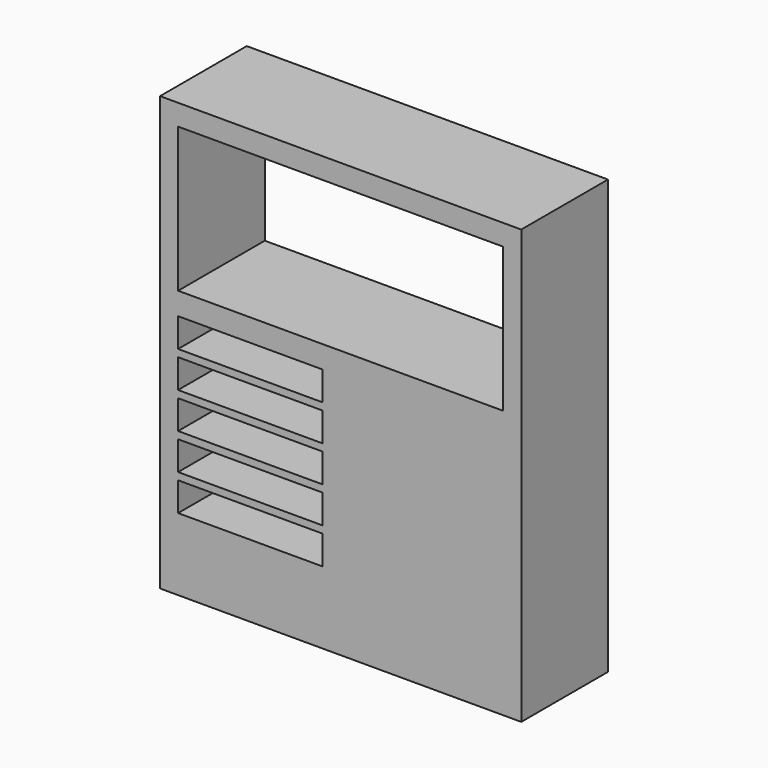
from build123d import *

# Parameters (mm, degrees)
F0_W     = 1000
F0_H     = 300
F1_DEPTH = 1200
F2_W     = 400
F2_H     = 80
F3_DEPTH = 120
F4_W     = 900
F4_H     = 400
F5_DEPTH = 300


with BuildPart() as f1:
    # F0 (on Top) → F1 (new body)
    with BuildSketch(Plane.XY):
        with Locations((-2.975285, 0)):
            Rectangle(F0_W, F0_H)
    extrude(amount=F1_DEPTH)

    # F2 (on face) → F3 (cut)
    with BuildSketch(Plane.XZ.offset(150)):
        with Locations((-252.975285, 640)):
            Rectangle(F2_W, F2_H)
        with Locations((-252.975285, 540)):
            Rectangle(F2_W, F2_H)
        with Locations((-252.975285, 440)):
            Rectangle(F2_W, F2_H)
        with Locations((-252.975285, 340)):
            Rectangle(F2_W, F2_H)
        with Locations((-252.975285, 240)):
            Rectangle(F2_W, F2_H)
    extrude(amount=-F3_DEPTH, mode=Mode.SUBTRACT)

    # F4 (on face) → F5 (cut)
    with BuildSketch(Plane.XZ.offset(150)):
        with Locations((-2.975285, 941.9734)):
            Rectangle(F4_W, F4_H)
    extrude(amount=-F5_DEPTH, mode=Mode.SUBTRACT)


solid = f1.part
